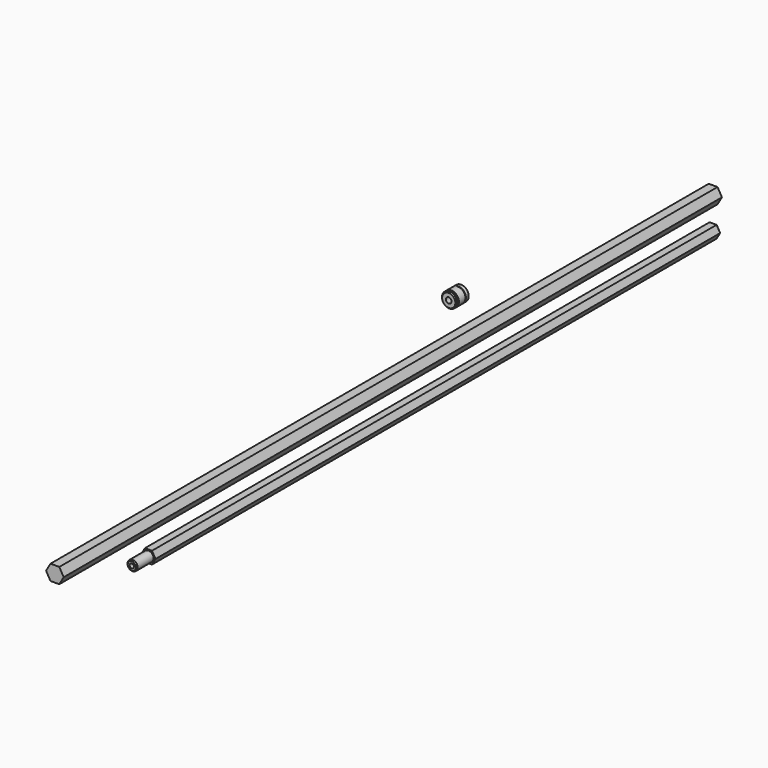
from build123d import *

# Parameters (mm, degrees)
F1_DEPTH  = 1620
F4_SIZE   = 2
F6_D      = 11
F6_DEPTH  = 20
F6_TIP    = 3.3047334047
F8_SIZE   = 2
F10_DEPTH = 1390
F11_R     = 10
F12_DEPTH = 41
F13_SIZE  = 2
F14_SIZE  = 2
F16_D     = 8.5
F16_DEPTH = 20.5
F16_TIP   = 2.5536576309


with BuildPart() as f1:
    # F0 (on Front) → F1 (new body)
    with BuildSketch(Plane.XZ):
        Polygon((-8.6602540378, -15), (8.6602540378, -15), (17.3205080757, 0), (8.6602540378, 15), (-8.6602540378, 15), (-17.3205080757, 0), align=None)
    extrude(amount=F1_DEPTH)

    # F8
    f8_edges = [f1.edges().sort_by_distance(p)[0] for p in [
        (0, 0, -15),
        (12.990381, 0, -7.5),
        (12.990381, 0, 7.5),
        (0, 0, 15),
        (-12.990381, 0, 7.5),
        (-12.990381, 0, -7.5),
    ]]
    chamfer(f8_edges, length=F8_SIZE)


with BuildPart() as f3:
    # F2 (on Right) → F3 (revolve)
    with BuildSketch(Plane.YZ):
        Polygon((-651.8502235413, 0), (-621.4502235413, 0), (-621.4502235413, 15), (-628.4502235413, 15), (-628.4502235413, 14), (-629.6502235413, 14), (-629.6502235413, 15), (-645.6502235413, 15), (-645.6502235413, 14), (-646.8502235413, 14), (-646.8502235413, 15), (-651.8502235413, 15), align=None)
    revolve(axis=Axis((0, -636.6502235413, 0), (0, 1, 0)))

    # F4
    f4_edges = [f3.edges().sort_by_distance(p)[0] for p in [
        (0, -651.850224, -15),
    ]]
    chamfer(f4_edges, length=F4_SIZE)

    # F6
    with Locations(Plane.XZ.offset(651.8502235413)):
        with Locations((0, 0)):
            Hole(F6_D / 2, depth=F6_DEPTH)
            with Locations((0, 0, -(F6_DEPTH + F6_TIP / 2))):  # 118° drill point
                Cone(0, F6_D / 2, F6_TIP, mode=Mode.SUBTRACT)


with BuildPart() as f3_1:
    # F7: moved
    add(f3.part.moved(Location((0, 0, 80))))


with BuildPart() as f10:
    # F9 (on Front) → F10 (new body)
    with BuildSketch(Plane.XZ):
        Polygon((-6.9282032303, -75.0396840775), (6.9282032303, -75.0396840775), (13.8564064606, -63.0396840775), (6.9282032303, -51.0396840775), (-6.9282032303, -51.0396840775), (-13.8564064606, -63.0396840775), align=None)
    extrude(amount=F10_DEPTH)

    # F11 (on face) → F12 (join)
    with BuildSketch(Plane.XZ.offset(1390)):
        with Locations((0, -63.0396840775)):
            Circle(F11_R)
    extrude(amount=F12_DEPTH)

    # F13
    f13_edges = [f10.edges().sort_by_distance(p)[0] for p in [
        (-10, -1431, -63.039684),
    ]]
    chamfer(f13_edges, length=F13_SIZE)

    # F14
    f14_edges = [f10.edges().sort_by_distance(p)[0] for p in [
        (-10.392305, 0, -69.039684),
        (0, 0, -75.039684),
        (10.392305, 0, -69.039684),
        (10.392305, 0, -57.039684),
        (0, 0, -51.039684),
        (-10.392305, 0, -57.039684),
    ]]
    chamfer(f14_edges, length=F14_SIZE)

    # F16
    with Locations(Plane.XZ.offset(1431)):
        with Locations((0, -63.0396840775)):
            Hole(F16_D / 2, depth=F16_DEPTH)
            with Locations((0, 0, -(F16_DEPTH + F16_TIP / 2))):  # 118° drill point
                Cone(0, F16_D / 2, F16_TIP, mode=Mode.SUBTRACT)


solid = Compound([f1.part, f3_1.part, f10.part])
